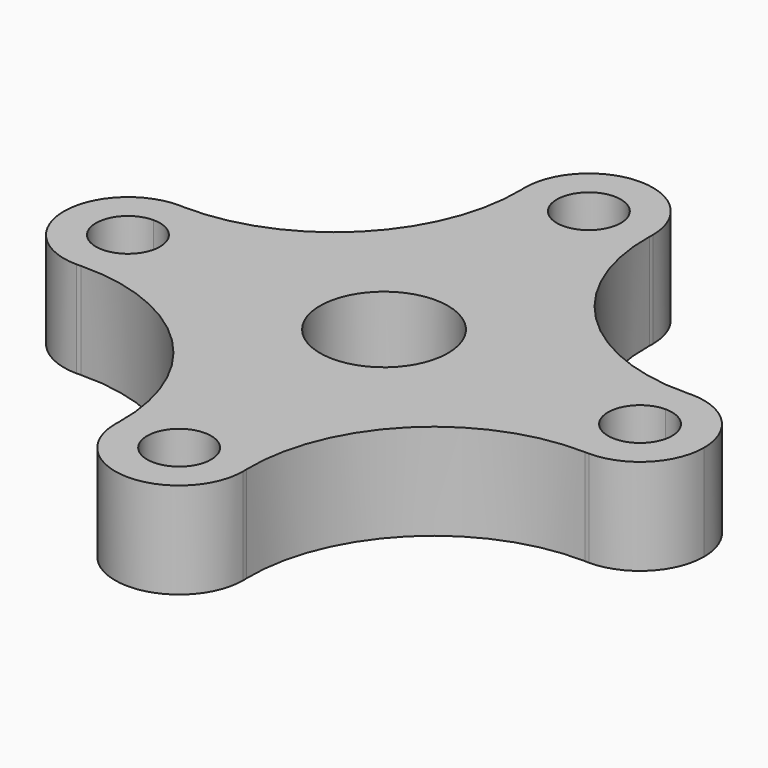
from build123d import *

# Parameters (mm, degrees)
F0_R     = 12.7
F1_DEPTH = 19.05


with BuildPart() as f1:
    # F0 (on Top) → F1 (new body)
    with BuildSketch(Plane.XY):
        with BuildLine():
            Line((12.7, 50.8), (6.35, 50.8))
            ThreePointArc((6.35, 50.8), (0, 44.45), (-6.35, 50.8))
            Line((-6.35, 50.8), (-12.7, 50.8))
            ThreePointArc((-12.7, 50.8), (-12.6840414564, 50.3847645602), (-12.6728079436, 49.9693744379))
            ThreePointArc((-12.6728079436, 49.9693744379), (0, 38.1), (12.6728079436, 49.9693744379))
            ThreePointArc((12.6728079436, 49.9693744379), (12.6840414564, 50.3847645602), (12.7, 50.8))
        make_face()
        with BuildLine():
            ThreePointArc((-6.35, 50.8), (0, 57.15), (6.35, 50.8))
            Line((6.35, 50.8), (12.7, 50.8))
            ThreePointArc((12.7, 50.8), (0, 63.5), (-12.7, 50.8))
            Line((-12.7, 50.8), (-6.35, 50.8))
        make_face()
        with BuildLine():
            ThreePointArc((12.6728079436, 49.9693744379), (12.6932001655, 50.384464733), (12.7, 50.8))
            ThreePointArc((12.7, 50.8), (12.6840414564, 50.3847645602), (12.6728079436, 49.9693744379))
        make_face()
        with BuildLine():
            ThreePointArc((-12.6728079436, 49.9693744379), (-12.6840414564, 50.3847645602), (-12.7, 50.8))
            ThreePointArc((-12.7, 50.8), (-12.6932001655, 50.384464733), (-12.6728079436, 49.9693744379))
        make_face()
        with BuildLine():
            ThreePointArc((49.9693744379, 12.6728079436), (23.3624685283, 23.3624685283), (12.6728079436, 49.9693744379))
            ThreePointArc((12.6728079436, 49.9693744379), (0, 38.1), (-12.6728079436, 49.9693744379))
            ThreePointArc((-12.6728079436, 49.9693744379), (-23.3624685283, 23.3624685283), (-49.9693744379, 12.6728079436))
            ThreePointArc((-49.9693744379, 12.6728079436), (-41.5307242829, 8.6816201069), (-38.1, 0))
            ThreePointArc((-38.1, 0), (-41.5307242829, -8.6816201069), (-49.9693744379, -12.6728079436))
            ThreePointArc((-49.9693744379, -12.6728079436), (-23.3624685283, -23.3624685283), (-12.6728079436, -49.9693744379))
            ThreePointArc((-12.6728079436, -49.9693744379), (0, -38.1), (12.6728079436, -49.9693744379))
            ThreePointArc((12.6728079436, -49.9693744379), (23.3624685283, -23.3624685283), (49.9693744379, -12.6728079436))
            ThreePointArc((49.9693744379, -12.6728079436), (38.1, 0), (49.9693744379, 12.6728079436))
        make_face()
        Circle(F0_R, mode=Mode.SUBTRACT)
        with BuildLine():
            ThreePointArc((50.8, 12.7), (50.3847645602, 12.6840414564), (49.9693744379, 12.6728079436))
            ThreePointArc((49.9693744379, 12.6728079436), (38.1, 0), (49.9693744379, -12.6728079436))
            ThreePointArc((49.9693744379, -12.6728079436), (50.3847645602, -12.6840414564), (50.8, -12.7))
            Line((50.8, -12.7), (50.8, -6.35))
            ThreePointArc((50.8, -6.35), (44.45, 0), (50.8, 6.35))
            Line((50.8, 6.35), (50.8, 12.7))
        make_face()
        with BuildLine():
            ThreePointArc((50.8, 12.7), (50.384464733, 12.6932001655), (49.9693744379, 12.6728079436))
            ThreePointArc((49.9693744379, 12.6728079436), (50.3847645602, 12.6840414564), (50.8, 12.7))
        make_face()
        with BuildLine():
            ThreePointArc((-50.8, 12.7), (-50.3847645602, 12.6840414564), (-49.9693744379, 12.6728079436))
            ThreePointArc((-49.9693744379, 12.6728079436), (-50.384464733, 12.6932001655), (-50.8, 12.7))
        make_face()
        with BuildLine():
            ThreePointArc((-38.1, 0), (-41.5307242829, 8.6816201069), (-49.9693744379, 12.6728079436))
            ThreePointArc((-49.9693744379, 12.6728079436), (-50.3847645602, 12.6840414564), (-50.8, 12.7))
            Line((-50.8, 12.7), (-50.8, 6.35))
            ThreePointArc((-50.8, 6.35), (-46.3098719395, 4.4901280605), (-44.45, 0))
            ThreePointArc((-44.45, 0), (-46.3098719395, -4.4901280605), (-50.8, -6.35))
            Line((-50.8, -6.35), (-50.8, -12.7))
            ThreePointArc((-50.8, -12.7), (-50.3847645602, -12.6840414564), (-49.9693744379, -12.6728079436))
            ThreePointArc((-49.9693744379, -12.6728079436), (-41.5307242829, -8.6816201069), (-38.1, 0))
        make_face()
        with BuildLine():
            ThreePointArc((63.5, 0), (59.7802561211, 8.9802561211), (50.8, 12.7))
            Line((50.8, 12.7), (50.8, 6.35))
            ThreePointArc((50.8, 6.35), (55.2901280605, 4.4901280605), (57.15, 0))
            ThreePointArc((57.15, 0), (55.2901280605, -4.4901280605), (50.8, -6.35))
            Line((50.8, -6.35), (50.8, -12.7))
            ThreePointArc((50.8, -12.7), (59.7802561211, -8.9802561211), (63.5, 0))
        make_face()
        with BuildLine():
            ThreePointArc((50.8, -12.7), (50.3847645602, -12.6840414564), (49.9693744379, -12.6728079436))
            ThreePointArc((49.9693744379, -12.6728079436), (50.384464733, -12.6932001655), (50.8, -12.7))
        make_face()
        with BuildLine():
            Line((-50.8, 6.35), (-50.8, 12.7))
            ThreePointArc((-50.8, 12.7), (-63.5, 0), (-50.8, -12.7))
            Line((-50.8, -12.7), (-50.8, -6.35))
            ThreePointArc((-50.8, -6.35), (-57.15, 0), (-50.8, 6.35))
        make_face()
        with BuildLine():
            ThreePointArc((12.7, -50.8), (12.6840414564, -50.3847645602), (12.6728079436, -49.9693744379))
            ThreePointArc((12.6728079436, -49.9693744379), (0, -38.1), (-12.6728079436, -49.9693744379))
            ThreePointArc((-12.6728079436, -49.9693744379), (-12.6840414564, -50.3847645602), (-12.7, -50.8))
            Line((-12.7, -50.8), (-6.35, -50.8))
            ThreePointArc((-6.35, -50.8), (0, -44.45), (6.35, -50.8))
            Line((6.35, -50.8), (12.7, -50.8))
        make_face()
        with BuildLine():
            ThreePointArc((12.7, -50.8), (12.6932001655, -50.384464733), (12.6728079436, -49.9693744379))
            ThreePointArc((12.6728079436, -49.9693744379), (12.6840414564, -50.3847645602), (12.7, -50.8))
        make_face()
        with BuildLine():
            ThreePointArc((-50.8, -12.7), (-50.384464733, -12.6932001655), (-49.9693744379, -12.6728079436))
            ThreePointArc((-49.9693744379, -12.6728079436), (-50.3847645602, -12.6840414564), (-50.8, -12.7))
        make_face()
        with BuildLine():
            ThreePointArc((-12.7, -50.8), (0, -63.5), (12.7, -50.8))
            Line((12.7, -50.8), (6.35, -50.8))
            ThreePointArc((6.35, -50.8), (0, -57.15), (-6.35, -50.8))
            Line((-6.35, -50.8), (-12.7, -50.8))
        make_face()
        with BuildLine():
            ThreePointArc((-12.7, -50.8), (-12.6840414564, -50.3847645602), (-12.6728079436, -49.9693744379))
            ThreePointArc((-12.6728079436, -49.9693744379), (-12.6932001655, -50.384464733), (-12.7, -50.8))
        make_face()
    extrude(amount=F1_DEPTH)


solid = f1.part
